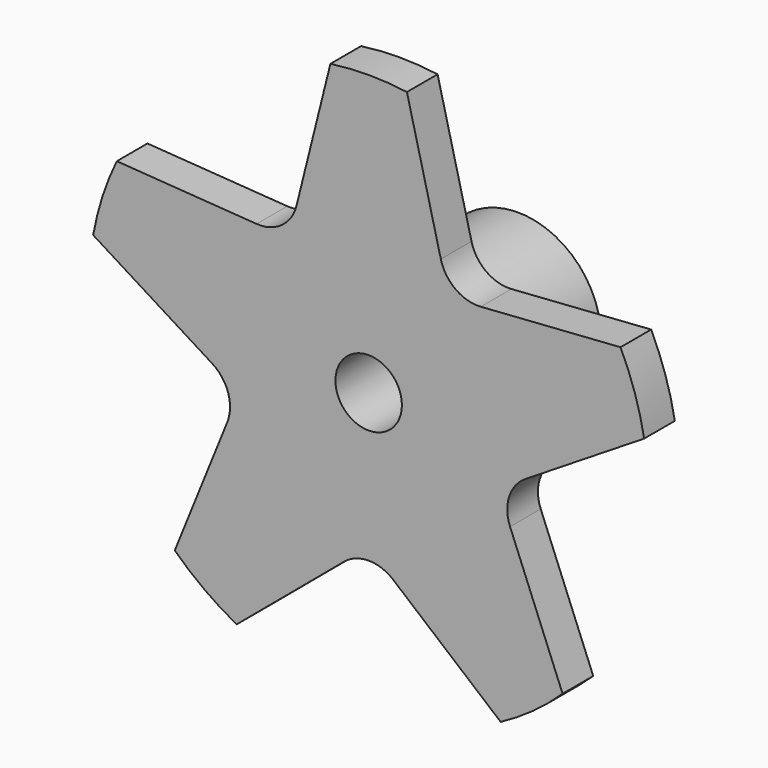
from build123d import *

# Parameters (mm, degrees)
POCKET_DEPTH       = 70.9409245757
POCKET_DEPTH_BACK  = 63.6409245757
POLARPATTERN_COUNT = 5


with BuildPart() as part:
    # Sketch → Revolution (revolve)
    with BuildSketch(Plane.XY):
        Polygon((3.25, 5.4), (1.3, 5.4), (1.3, -1.9), (10.95, -1.9), (10.95, -0.4), (3.25, -0.4), align=None)
    revolve(axis=Axis((0, 0, 0), (0, 1, 0)))

    # Sketch002 (on Face3 of Revolution) → Pocket (cut, two sides)
    with BuildSketch(Plane.XZ.offset(1.9)) as pocket_sk:
        with BuildLine():
            Line((1.4964773799, 10.847260274), (2.8231817433, 5.526139709))
            ThreePointArc((2.8231817433, 5.526139709), (3.3969474543, 4.6754970609), (4.3832600433, 4.392676477))
            Line((4.3832600433, 4.392676477), (9.8539206254, 4.7752223308))
            ThreePointArc((9.8539206254, 4.7752223308), (6.4362485126, 8.8587360884), (1.4964773799, 10.847260274))
        make_face()
    pocket = extrude(amount=-POCKET_DEPTH, mode=Mode.SUBTRACT) + extrude(pocket_sk.sketch, amount=POCKET_DEPTH_BACK, mode=Mode.SUBTRACT)

    # PolarPattern: Pocket ×5 about axis
    polarpattern_axis = Axis((0, -1.9, 0), (0, -1, 0))
    for i in range(1, POLARPATTERN_COUNT):
        add(pocket.rotate(polarpattern_axis, i * 360 / POLARPATTERN_COUNT), mode=Mode.SUBTRACT)


solid = part.part
